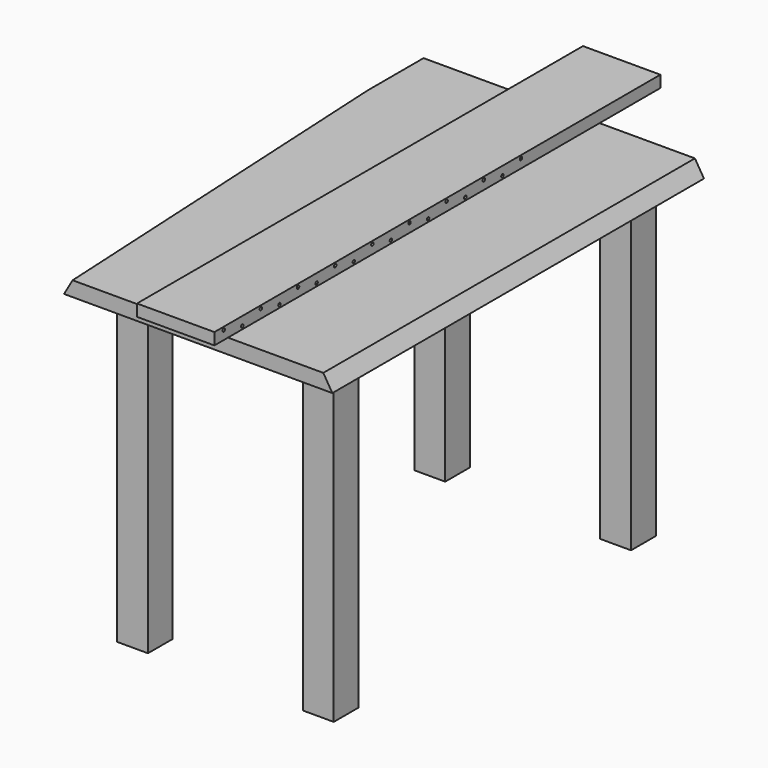
from build123d import *

# Parameters (mm, degrees)
F0_W      = 48
F0_H      = 150
F1_DEPTH  = 4.8
F5_DEPTH  = 68.9631378847
F6_DEPTH  = 83.3454182282
F8_W      = 10
F8_H      = 10
F9_DEPTH  = 100
F11_DEPTH = 150.001
F12_W     = 180
F12_H     = 3.8
F12_R     = 0.5
F13_DEPTH = 25


with BuildPart() as f1:
    # F0 (on Top) → F1 (new body)
    with BuildSketch(Plane.XY):
        with Locations((24, 0)):
            Rectangle(F0_W, F0_H)
    extrude(amount=F1_DEPTH)

    # F4 (on line) → F5 (cut, through all)
    with BuildSketch(Plane(origin=(0.4420924529, 8.4356265233, 0), x_dir=(0.9986295348, -0.0523359562, 0), z_dir=(-0.0523359562, -0.9986295348, 0))):
        Polygon((61.4937136564, 17.132105228), (40.0873841201, 13.6371948011), (53.9153187719, -10.3134905796), (66.7064852408, -14.0210765163), align=None)
    extrude(amount=-F5_DEPTH, mode=Mode.SUBTRACT)

    # F4 (on line) → F6 (cut, through all)
    with BuildSketch(Plane(origin=(0.4420924529, 8.4356265233, 0), x_dir=(0.9986295348, -0.0523359562, 0), z_dir=(-0.0523359562, -0.9986295348, 0))):
        Polygon((61.4937136564, 17.132105228), (40.0873841201, 13.6371948011), (53.9153187719, -10.3134905796), (66.7064852408, -14.0210765163), align=None)
    extrude(amount=F6_DEPTH, mode=Mode.SUBTRACT)

    # F7: F1 across plane


with BuildPart() as f1_1:
    add(f1.part)
    add(f1.part.mirror(Plane.YZ))

    # F8 (on face) → F9 (join)
    with BuildSketch(Plane(origin=(0, 0, 0), x_dir=(1, 0, 0), z_dir=(0, 0, -1))):
        with Locations((-30, 60)):
            Rectangle(F8_W, F8_H)
        with Locations((30, 60)):
            Rectangle(F8_W, F8_H)
        with Locations((30, -60)):
            Rectangle(F8_W, F8_H)
        with Locations((-30, -60)):
            Rectangle(F8_W, F8_H)
    extrude(amount=F9_DEPTH)

    # F10 (on face) → F11 (cut, through all)
    with BuildSketch(Plane.XZ.offset(75)):
        Polygon((34.8348915577, 12.6849524677), (48.7158372998, -10.1333111525), (49.0075275302, -3.8525555283), (49.0075275302, -10.8070056885), (48.9463172853, -9.7643891349), (48.3853444457, -11.9521543384), (50.2030849457, -10.4640051723), (51.5250787139, -8.9758560061), (52.516579628, -10.2986544371), (50.2030849457, 21.1177915335), (36.6526320577, 31.4541943371), align=None)
    extrude(amount=-F11_DEPTH, mode=Mode.SUBTRACT)


with BuildPart() as f13:
    # F12 (on Right) → F13 (new body)
    with BuildSketch(Plane.YZ):
        with Locations((-10.6655588388, 20.1710040491)):
            Rectangle(F12_W, F12_H)
        with Locations((-89.4155588388, 19.2210040491)):
            Circle(F12_R, mode=Mode.SUBTRACT)
        with Locations((-74.4155588388, 19.2210040491)):
            Circle(F12_R, mode=Mode.SUBTRACT)
        with Locations((-59.4155588388, 19.2210040491)):
            Circle(F12_R, mode=Mode.SUBTRACT)
        with Locations((-44.4155588388, 19.2210040491)):
            Circle(F12_R, mode=Mode.SUBTRACT)
        with Locations((-29.4155588388, 19.2210040491)):
            Circle(F12_R, mode=Mode.SUBTRACT)
        with Locations((-14.4155588388, 19.2210040491)):
            Circle(F12_R, mode=Mode.SUBTRACT)
        with Locations((0.5844411612, 19.2210040491)):
            Circle(F12_R, mode=Mode.SUBTRACT)
        with Locations((15.5844411612, 19.2210040491)):
            Circle(F12_R, mode=Mode.SUBTRACT)
        with Locations((-96.9155588388, 21.1210040491)):
            Circle(F12_R, mode=Mode.SUBTRACT)
        with Locations((-81.9155588388, 21.1210040491)):
            Circle(F12_R, mode=Mode.SUBTRACT)
        with Locations((-66.9155588388, 21.1210040491)):
            Circle(F12_R, mode=Mode.SUBTRACT)
        with Locations((-51.9155588388, 21.1210040491)):
            Circle(F12_R, mode=Mode.SUBTRACT)
        with Locations((-36.9155588388, 21.1210040491)):
            Circle(F12_R, mode=Mode.SUBTRACT)
        with Locations((-21.9155588388, 21.1210040491)):
            Circle(F12_R, mode=Mode.SUBTRACT)
        with Locations((-6.9155588388, 21.1210040491)):
            Circle(F12_R, mode=Mode.SUBTRACT)
        with Locations((8.0844411612, 21.1210040491)):
            Circle(F12_R, mode=Mode.SUBTRACT)
        with Locations((23.0844411612, 21.1210040491)):
            Circle(F12_R, mode=Mode.SUBTRACT)
    extrude(amount=F13_DEPTH)


solid = Compound([f1_1.part, f13.part])
